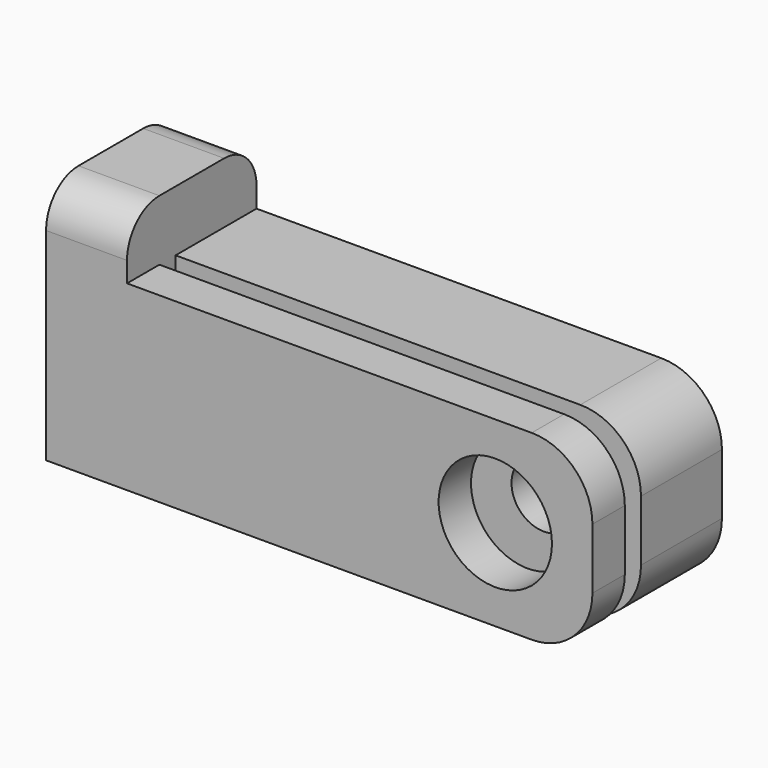
from build123d import *

# Parameters (mm, degrees)
CYLINDER001_R     = 1.6
CYLINDER001_DEPTH = 5
BOX001_W          = 27
BOX001_H          = 5
BOX001_DEPTH      = 9
FILLET_R          = 3
BOX002_W          = 4
BOX002_H          = 8
BOX002_DEPTH      = 12
FILLET002_R       = 2
CYLINDER_R        = 2.8
CYLINDER_DEPTH    = 2
BOX_W             = 27
BOX_H             = 2
BOX_DEPTH         = 9
FILLET001_R       = 3


with BuildPart() as screw_hole:
    # Cylinder001 → Cylinder001 (new body)
    with BuildSketch(Plane(origin=(22.2, 3, 4.5), x_dir=(1, 0, 0), z_dir=(0, 1, 0))):
        Circle(CYLINDER001_R)
    extrude(amount=CYLINDER001_DEPTH)


with BuildPart() as back_cut:
    # Box001 → Box001 (new body)
    with BuildSketch(Plane(origin=(0, 3, 0), x_dir=(1, 0, 0), z_dir=(0, 0, 1))):
        with Locations((13.5, 2.5)):
            Rectangle(BOX001_W, BOX001_H)
    extrude(amount=BOX001_DEPTH)

    # Fillet
    fillet_edges = [back_cut.edges().sort_by_distance(p)[0] for p in [
        (27, 5.5, 9),
        (27, 5.5, 0),
    ]]
    fillet(fillet_edges, radius=FILLET_R)

    # Cut001: cut screw hole
    add(screw_hole.part, mode=Mode.SUBTRACT)


with BuildPart() as glue_cube_fillet:
    # Box002 → Box002 (new body)
    with BuildSketch(Plane.XY):
        with Locations((2, 4)):
            Rectangle(BOX002_W, BOX002_H)
    extrude(amount=BOX002_DEPTH)

    # Fillet002
    fillet002_edges = [glue_cube_fillet.edges().sort_by_distance(p)[0] for p in [
        (2, 0, 12),
        (2, 8, 12),
    ]]
    fillet(fillet002_edges, radius=FILLET002_R)


with BuildPart() as pass_hole:
    # Cylinder → Cylinder (new body)
    with BuildSketch(Plane(origin=(22.2, 0, 4.5), x_dir=(1, 0, 0), z_dir=(0, 1, 0))):
        Circle(CYLINDER_R)
    extrude(amount=CYLINDER_DEPTH)


with BuildPart() as power_socket_screw_connector:
    # Box → Box (new body)
    with BuildSketch(Plane.XY):
        with Locations((13.5, 1)):
            Rectangle(BOX_W, BOX_H)
    extrude(amount=BOX_DEPTH)

    # Fillet001
    fillet001_edges = [power_socket_screw_connector.edges().sort_by_distance(p)[0] for p in [
        (27, 1, 9),
        (27, 1, 0),
    ]]
    fillet(fillet001_edges, radius=FILLET001_R)

    # Cut: cut pass hole
    add(pass_hole.part, mode=Mode.SUBTRACT)

    # Fusion: union back cut, glue cube fillet
    add(back_cut.part)
    add(glue_cube_fillet.part)


solid = power_socket_screw_connector.part
